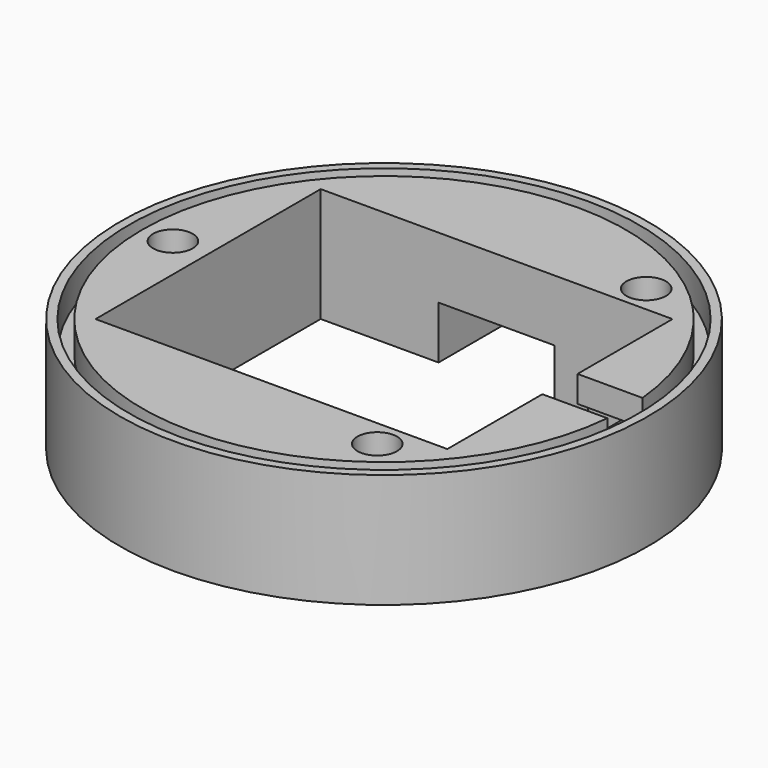
from build123d import *

# Parameters (mm, degrees)
SKETCH027_R             = 30
PAD006_DEPTH            = 13
SKETCH028_R             = 29
POCKET018_DEPTH         = 3.5
SKETCH029_R             = 27.5
PAD007_DEPTH            = 3.5
SKETCH031_W             = 32
SKETCH031_H             = 40
POCKET020_DEPTH         = 13
SKETCH032_W             = 5
SKETCH032_H             = 3
POCKET021_DEPTH         = 8
SKETCH033_R             = 2.25
POCKET022_DEPTH         = 20
SKETCH034_W             = 8
SKETCH034_H             = 5
POCKET023_DEPTH         = 10
SKETCH035_W             = 13.2
SKETCH035_H             = 7
POCKET024_DEPTH         = 9
SKETCH036_W             = 6.5
SKETCH036_H             = 7
POCKET025_DEPTH         = 5
SKETCH037_W             = 2
SKETCH037_H             = 13.2
PAD008_DEPTH            = 1
BODY005_PLACEMENT_ANGLE = 90


with BuildPart() as part:
    # Sketch027 → Pad006 (new body)
    with BuildSketch(Plane.XY):
        Circle(SKETCH027_R)
    extrude(amount=PAD006_DEPTH)

    # Sketch028 (on Face3 of Pad006) → Pocket018 (cut)
    with BuildSketch(Plane.XY.offset(13)):
        Circle(SKETCH028_R)
    extrude(amount=-POCKET018_DEPTH, mode=Mode.SUBTRACT)

    # Sketch029 (on Face5 of Pocket018) → Pad007 (join)
    with BuildSketch(Plane.XY.offset(9.5)):
        Circle(SKETCH029_R)
    extrude(amount=PAD007_DEPTH)

    # Sketch031 → Pocket020 (cut)
    with BuildSketch(Plane.XY.offset(13)):
        Rectangle(SKETCH031_W, SKETCH031_H)
    extrude(amount=-POCKET020_DEPTH, mode=Mode.SUBTRACT)

    # Sketch032 (on Face5 of Pocket020) → Pocket021 (cut)
    with BuildSketch(Plane(origin=(0, -20, 0), x_dir=(-1, 0, 0), z_dir=(0, 1, 0))):
        with Locations((0, 11.5)):
            Rectangle(SKETCH032_W, SKETCH032_H)
    extrude(amount=-POCKET021_DEPTH, mode=Mode.SUBTRACT)

    # Sketch033 (on Face9 of Pocket021) → Pocket022 (cut)
    with BuildSketch(Plane.XY.offset(13)):
        with Locations((-19.108778, -14.520833)):
            Circle(SKETCH033_R)
        with Locations((0, 24)):
            Circle(SKETCH033_R)
        with Locations((19.108778, -14.520833)):
            Circle(SKETCH033_R)
    extrude(amount=-POCKET022_DEPTH, mode=Mode.SUBTRACT)

    # Sketch034 (on Face2 of Pocket022) → Pocket023 (cut)
    with BuildSketch(Plane(origin=(0, 0, 0), x_dir=(1, 0, 0), z_dir=(0, 0, -1))):
        with Locations((0, 22.5)):
            Rectangle(SKETCH034_W, SKETCH034_H)
    extrude(amount=-POCKET023_DEPTH, mode=Mode.SUBTRACT)

    # Sketch035 (on Face10 of Pocket023) → Pocket024 (cut)
    with BuildSketch(Plane(origin=(16, 0, 0), x_dir=(0, -1, 0), z_dir=(-1, 0, 0))):
        with Locations((0, 3.5)):
            Rectangle(SKETCH035_W, SKETCH035_H)
    extrude(amount=-POCKET024_DEPTH, mode=Mode.SUBTRACT)

    # Sketch036 (on Face12 of Pocket024) → Pocket025 (cut)
    with BuildSketch(Plane(origin=(25, 0, 0), x_dir=(0, -1, 0), z_dir=(-1, 0, 0))):
        with Locations((0, 3.5)):
            Rectangle(SKETCH036_W, SKETCH036_H)
    extrude(amount=-POCKET025_DEPTH, mode=Mode.SUBTRACT)

    # Sketch037 (on Face7 of Pocket025) → Pad008 (join)
    with BuildSketch(Plane(origin=(0, 0, 7), x_dir=(1, 0, 0), z_dir=(0, 0, -1))):
        with Locations((17, 0)):
            Rectangle(SKETCH037_W, SKETCH037_H)
    extrude(amount=PAD008_DEPTH)


with BuildPart() as part_1:
    # Body005 placement: moved
    add(part.part.moved(Location((0, 0, 5))).rotate(Axis((0, 0, 5), (0, 0, 1)), BODY005_PLACEMENT_ANGLE))


solid = part_1.part
